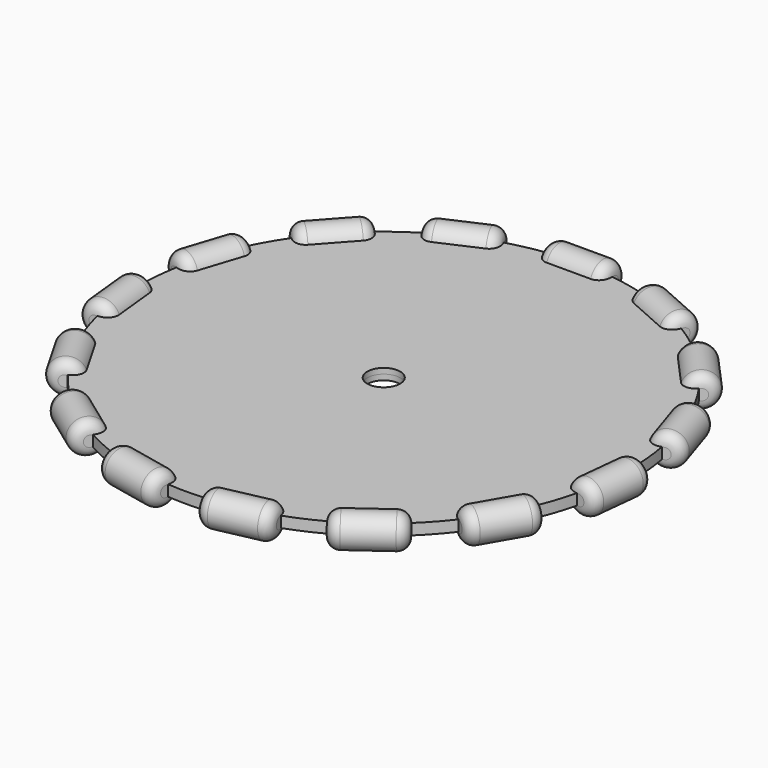
from build123d import *

# Parameters (mm, degrees)
F1_R          = 1.5
F2_DEPTH      = 3
F2_DEPTH_BACK = 3
F3_R          = 1
F4_COUNT      = 15
F5_R          = 22.5
F5_R_2        = 1.5
F6_DEPTH      = 0.5
F6_DEPTH_BACK = 0.5


with BuildPart() as f2:
    # F1 (on Right) → F2 (new body, two sides)
    with BuildSketch(Plane.YZ) as f2_sk:
        with Locations((22.5, 0)):
            Circle(F1_R)
    extrude(amount=F2_DEPTH)
    extrude(f2_sk.sketch, amount=-F2_DEPTH_BACK)

    # F3
    f3_edges = [f2.edges().sort_by_distance(p)[0] for p in [
        (3, 21, 0),
        (-3, 21, 0),
    ]]
    fillet(f3_edges, radius=F3_R)


with BuildPart() as f4_1:
    # F4: instance of F2
    add(f2.part.rotate(Axis((0, 0, 0), (0, 0, 1)), 1 * 360 / F4_COUNT))


with BuildPart() as f4_2:
    # F4: instance of F2
    add(f2.part.rotate(Axis((0, 0, 0), (0, 0, 1)), 2 * 360 / F4_COUNT))


with BuildPart() as f4_3:
    # F4: instance of F2
    add(f2.part.rotate(Axis((0, 0, 0), (0, 0, 1)), 3 * 360 / F4_COUNT))


with BuildPart() as f4_4:
    # F4: instance of F2
    add(f2.part.rotate(Axis((0, 0, 0), (0, 0, 1)), 4 * 360 / F4_COUNT))


with BuildPart() as f4_5:
    # F4: instance of F2
    add(f2.part.rotate(Axis((0, 0, 0), (0, 0, 1)), 5 * 360 / F4_COUNT))


with BuildPart() as f4_6:
    # F4: instance of F2
    add(f2.part.rotate(Axis((0, 0, 0), (0, 0, 1)), 6 * 360 / F4_COUNT))


with BuildPart() as f4_7:
    # F4: instance of F2
    add(f2.part.rotate(Axis((0, 0, 0), (0, 0, 1)), 7 * 360 / F4_COUNT))


with BuildPart() as f4_8:
    # F4: instance of F2
    add(f2.part.rotate(Axis((0, 0, 0), (0, 0, 1)), 8 * 360 / F4_COUNT))


with BuildPart() as f4_9:
    # F4: instance of F2
    add(f2.part.rotate(Axis((0, 0, 0), (0, 0, 1)), 9 * 360 / F4_COUNT))


with BuildPart() as f4_10:
    # F4: instance of F2
    add(f2.part.rotate(Axis((0, 0, 0), (0, 0, 1)), 10 * 360 / F4_COUNT))


with BuildPart() as f4_11:
    # F4: instance of F2
    add(f2.part.rotate(Axis((0, 0, 0), (0, 0, 1)), 11 * 360 / F4_COUNT))


with BuildPart() as f4_12:
    # F4: instance of F2
    add(f2.part.rotate(Axis((0, 0, 0), (0, 0, 1)), 12 * 360 / F4_COUNT))


with BuildPart() as f4_13:
    # F4: instance of F2
    add(f2.part.rotate(Axis((0, 0, 0), (0, 0, 1)), 13 * 360 / F4_COUNT))


with BuildPart() as f4_14:
    # F4: instance of F2
    add(f2.part.rotate(Axis((0, 0, 0), (0, 0, 1)), 14 * 360 / F4_COUNT))


with BuildPart() as f2_1:
    add(f2.part)

    add(f4_1.part)  # F6 merges F4_1

    add(f4_2.part)  # F6 merges F4_2

    add(f4_3.part)  # F6 merges F4_3

    add(f4_4.part)  # F6 merges F4_4

    add(f4_5.part)  # F6 merges F4_5

    add(f4_6.part)  # F6 merges F4_6

    add(f4_7.part)  # F6 merges F4_7

    add(f4_8.part)  # F6 merges F4_8

    add(f4_9.part)  # F6 merges F4_9

    add(f4_10.part)  # F6 merges F4_10

    add(f4_11.part)  # F6 merges F4_11

    add(f4_12.part)  # F6 merges F4_12

    add(f4_13.part)  # F6 merges F4_13

    add(f4_14.part)  # F6 merges F4_14
    # F5 (on Top) → F6 (join, two sides)
    with BuildSketch(Plane.XY) as f6_sk:
        Circle(F5_R)
        Circle(F5_R_2, mode=Mode.SUBTRACT)
    extrude(amount=F6_DEPTH)
    extrude(f6_sk.sketch, amount=-F6_DEPTH_BACK)


solid = f2_1.part
